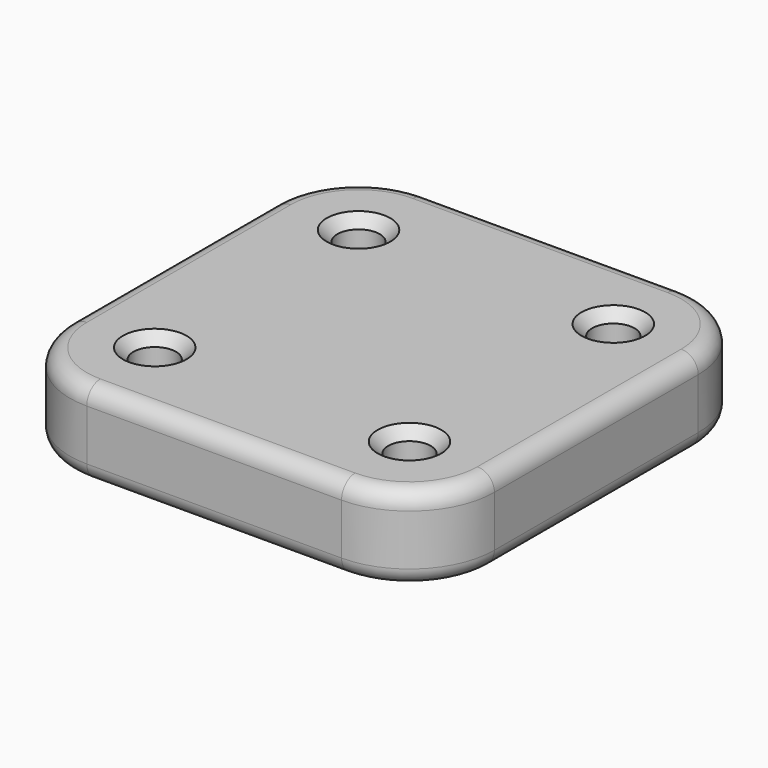
from build123d import *

# Parameters (mm, degrees)
F0_W           = 127
F0_H           = 127
F1_DEPTH       = 25.4
F2_R           = 25.4
F3_R           = 5.08
F5_D           = 12.7
F5_CSINK_D     = 19.05
F5_CSINK_ANGLE = 90


with BuildPart() as f1:
    # F0 (on Top) → F1 (new body)
    with BuildSketch(Plane.XY):
        Rectangle(F0_W, F0_H)
    extrude(amount=F1_DEPTH)

    # F2
    f2_edges = [f1.edges().sort_by_distance(p)[0] for p in [
        (63.5, -63.5, 12.7),
        (63.5, 63.5, 12.7),
        (-63.5, -63.5, 12.7),
        (-63.5, 63.5, 12.7),
    ]]
    fillet(f2_edges, radius=F2_R)

    # F3
    f3_edges = [f1.edges().sort_by_distance(p)[0] for p in [
        (0, -63.5, 25.4),
        (0, -63.5, 0),
    ]]
    fillet(f3_edges, radius=F3_R)

    # F5 (through all)
    with Locations(Plane.XY.offset(25.4)):
        with Locations((-38.1, -38.1), (-38.1, 38.1), (38.1, -38.1), (38.1, 38.1)):
            CounterSinkHole(F5_D / 2, F5_CSINK_D / 2, counter_sink_angle=F5_CSINK_ANGLE)


solid = f1.part
